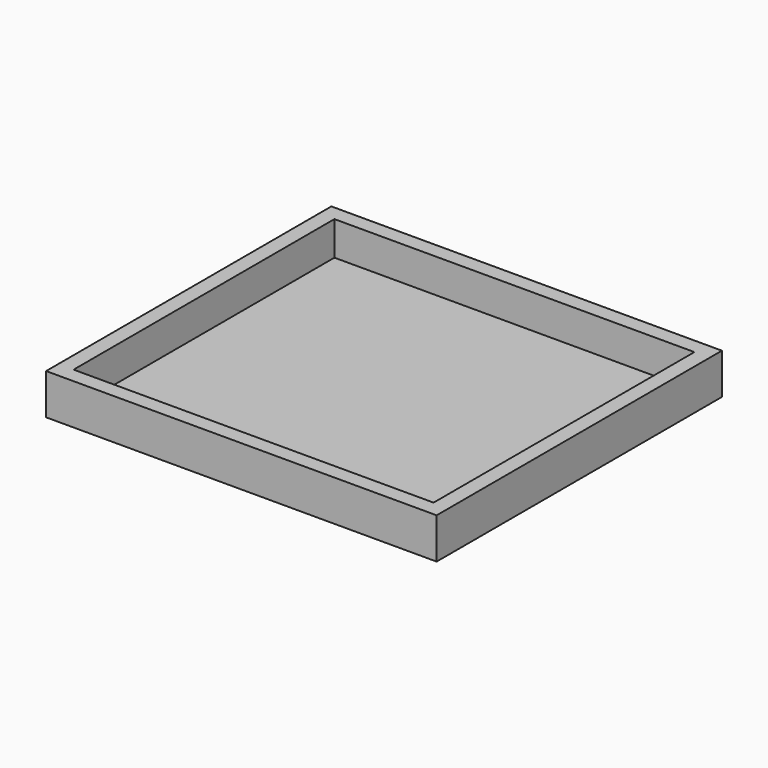
from build123d import *

# Parameters (mm, degrees)
SKETCH_W     = 460
SKETCH_H     = 420
PAD_DEPTH    = 48
SKETCH001_W  = 424
SKETCH001_H  = 384
POCKET_DEPTH = 40


with BuildPart() as part:
    # Sketch → Pad (new body)
    with BuildSketch(Plane.XY):
        with Locations((230, 210)):
            Rectangle(SKETCH_W, SKETCH_H)
    extrude(amount=PAD_DEPTH)

    # Sketch001 (on Face6 of Pad) → Pocket (cut)
    with BuildSketch(Plane.XY.offset(48)):
        with Locations((230, 210)):
            Rectangle(SKETCH001_W, SKETCH001_H)
    extrude(amount=-POCKET_DEPTH, mode=Mode.SUBTRACT)


solid = part.part
